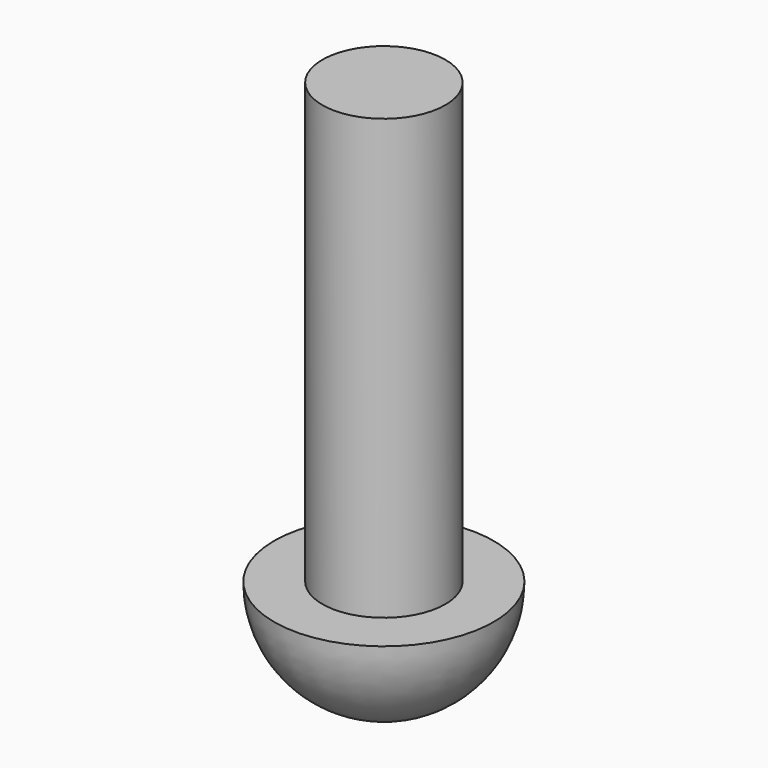
from build123d import *

# Parameters (mm, degrees)
F0_R     = 1.4
F1_DEPTH = 10


with BuildPart() as f1:
    # F0 (on Top) → F1 (new body)
    with BuildSketch(Plane.XY):
        Circle(F0_R)
    extrude(amount=F1_DEPTH)

    # F2 (on Front) → F3 (revolve)
    with BuildSketch(Plane.XZ):
        with BuildLine():
            Line((0, 0), (-2.5, 0))
            ThreePointArc((-2.5, 0), (-1.767767, -1.767767), (0, -2.5))
            Line((0, -2.5), (0, 0))
        make_face()
    revolve(axis=Axis((0, 0, -1.25), (0, 0, -1)))


solid = f1.part
